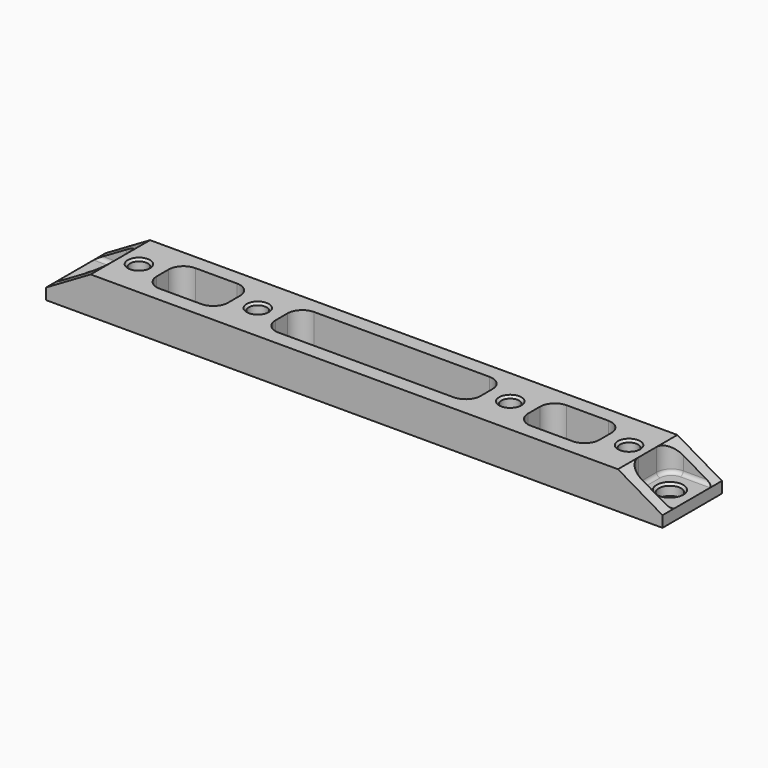
from build123d import *

# Parameters (mm, degrees)
F0_W          = 166
F0_H          = 20
F0_R          = 2.4
F1_DEPTH      = 10
F2_W          = 12
F2_H          = 14
F3_DEPTH      = 7
F5_DEPTH      = 3.001
F5_DEPTH_BACK = 17.001
F6_R          = 4
F7_R          = 1
F8_R          = 3
F9_DEPTH      = 3.001
F10_W         = 55.2
F10_H         = 12
F10_W_2       = 19.2
F11_DEPTH     = 10.001
F12_R         = 4
F13_SIZE      = 0.6


with BuildPart() as f1:
    # F0 (on Top) → F1 (new body)
    with BuildSketch(Plane.XY):
        with Locations((83, 10)):
            Rectangle(F0_W, F0_H)
        with Locations((17, 10)):
            Circle(F0_R, mode=Mode.SUBTRACT)
        with Locations((49, 10)):
            Circle(F0_R, mode=Mode.SUBTRACT)
        with Locations((117, 10)):
            Circle(F0_R, mode=Mode.SUBTRACT)
        with Locations((149, 10)):
            Circle(F0_R, mode=Mode.SUBTRACT)
    extrude(amount=F1_DEPTH)

    # F2 (on face) → F3 (cut)
    with BuildSketch(Plane.XY.offset(10)):
        with Locations((6, 10)):
            Rectangle(F2_W, F2_H)
        with Locations((160, 10)):
            Rectangle(F2_W, F2_H)
    extrude(amount=-F3_DEPTH, mode=Mode.SUBTRACT)

    # F4 (on face) → F5 (cut, two sides)
    with BuildSketch(Plane.XZ.offset(-17)) as f5_sk:
        Polygon((0, 10), (0, 3), (12, 10), align=None)
        Polygon((166, 3), (166, 10), (154, 10), align=None)
    extrude(amount=-F5_DEPTH, mode=Mode.SUBTRACT)
    extrude(f5_sk.sketch, amount=F5_DEPTH_BACK, mode=Mode.SUBTRACT)

    # F6
    f6_edges = [f1.edges().sort_by_distance(p)[0] for p in [
        (12, 17, 6.5),
        (12, 3, 6.5),
        (154, 3, 6.5),
        (154, 17, 6.5),
    ]]
    fillet(f6_edges, radius=F6_R)

    # F7
    f7_edges = [f1.edges().sort_by_distance(p)[0] for p in [
        (162, 17, 3),
        (4, 3, 3),
    ]]
    fillet(f7_edges, radius=F7_R)

    # F8 (on face) → F9 (cut, through all)
    with BuildSketch(Plane.XY.offset(3)):
        with Locations((160, 10)):
            Circle(F8_R)
        with Locations((6, 10)):
            Circle(F8_R)
    extrude(amount=-F9_DEPTH, mode=Mode.SUBTRACT)

    # F10 (on face) → F11 (cut, through all)
    with BuildSketch(Plane(origin=(0, 0, 0), x_dir=(1, 0, 0), z_dir=(0, 0, -1))):
        with Locations((83, -10)):
            Rectangle(F10_W, F10_H)
        with Locations((133, -10)):
            Rectangle(F10_W_2, F10_H)
        with Locations((33, -10)):
            Rectangle(F10_W_2, F10_H)
    extrude(amount=-F11_DEPTH, mode=Mode.SUBTRACT)

    # F12
    f12_edges = [f1.edges().sort_by_distance(p)[0] for p in [
        (123.4, 16, 5),
        (123.4, 4, 5),
        (142.6, 16, 5),
        (142.6, 4, 5),
        (110.6, 16, 5),
        (110.6, 4, 5),
        (55.4, 16, 5),
        (55.4, 4, 5),
        (42.6, 4, 5),
        (42.6, 16, 5),
        (23.4, 16, 5),
        (23.4, 4, 5),
    ]]
    fillet(f12_edges, radius=F12_R)

    # F13
    f13_edges = [f1.edges().sort_by_distance(p)[0] for p in [
        (3, 10, 3),
        (14.6, 10, 10),
        (46.6, 10, 10),
        (114.6, 10, 10),
        (146.6, 10, 10),
        (157, 10, 3),
    ]]
    chamfer(f13_edges, length=F13_SIZE)


solid = f1.part
